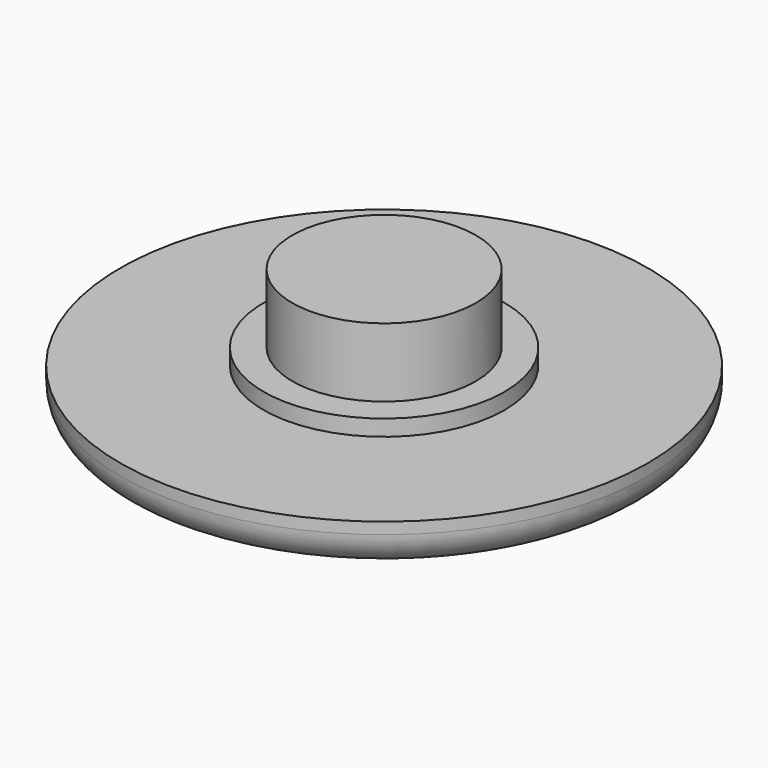
from build123d import *

# Parameters (mm, degrees)
F0_R     = 11.5
F1_DEPTH = 2
F2_R     = 5.25
F3_DEPTH = 0.7
F4_R     = 4
F5_DEPTH = 3
F6_R     = 1.5


with BuildPart() as f1:
    # F0 (on Top) → F1 (new body)
    with BuildSketch(Plane.XY):
        Circle(F0_R)
    extrude(amount=F1_DEPTH)

    # F2 (on face) → F3 (join)
    with BuildSketch(Plane.XY.offset(2)):
        Circle(F2_R)
    extrude(amount=F3_DEPTH)

    # F4 (on face) → F5 (join)
    with BuildSketch(Plane.XY.offset(2.7)):
        Circle(F4_R)
    extrude(amount=F5_DEPTH)

    # F6
    f6_edges = [f1.edges().sort_by_distance(p)[0] for p in [
        (-11.5, 0, 0),
    ]]
    fillet(f6_edges, radius=F6_R)


solid = f1.part
